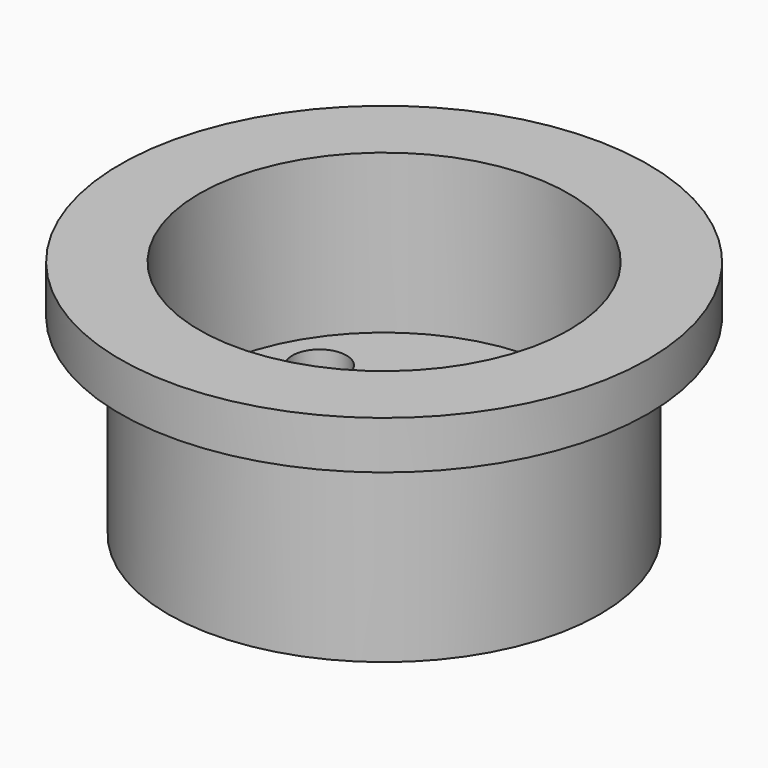
from build123d import *

# Parameters (mm, degrees)
F0_R           = 55
F0_R_2         = 3
F1_DEPTH       = 50
F2_R           = 38.5
F2_R_2         = 3
F3_DEPTH       = 33
F5_D           = 6.6
F5_CBORE_D     = 11.25
F5_CBORE_DEPTH = 6
F6_R           = 57.5
F6_R_2         = 45
F7_DEPTH       = 40


with BuildPart() as f1:
    # F0 (on Top) → F1 (new body)
    with BuildSketch(Plane.XY):
        Circle(F0_R)
        with BuildLine():
            ThreePointArc((28.0281341694, -14.45), (25.8045913047, -17.3477774789), (22.430057958, -15.95))
            Line((22.430057958, -15.95), (2.5980762114, -27.4))
            ThreePointArc((2.5980762114, -27.4), (2.8977774789, -28.1235428647), (3, -28.9))
            ThreePointArc((3, -28.9), (-0.7764571353, -31.7977774789), (-2.5980762114, -27.4))
            Line((-2.5980762114, -27.4), (-22.430057958, -15.95))
            ThreePointArc((-22.430057958, -15.95), (-27.6262103807, -15.95), (-25.0281341694, -11.45))
            Line((-25.0281341694, -11.45), (-25.0281341694, 11.45))
            ThreePointArc((-25.0281341694, 11.45), (-27.6262103807, 15.95), (-22.430057958, 15.95))
            Line((-22.430057958, 15.95), (-2.5980762114, 27.4))
            ThreePointArc((-2.5980762114, 27.4), (-0.7764571353, 31.7977774789), (3, 28.9))
            ThreePointArc((3, 28.9), (2.8977774789, 28.1235428647), (2.5980762114, 27.4))
            Line((2.5980762114, 27.4), (22.430057958, 15.95))
            ThreePointArc((22.430057958, 15.95), (25.8045913047, 17.3477774789), (28.0281341694, 14.45))
            ThreePointArc((28.0281341694, 14.45), (27.1494545129, 12.3286796564), (25.0281341694, 11.45))
            Line((25.0281341694, 11.45), (25.0281341694, -11.45))
            ThreePointArc((25.0281341694, -11.45), (27.1494545129, -12.3286796564), (28.0281341694, -14.45))
        make_face(mode=Mode.SUBTRACT)
        with BuildLine():
            Line((2.5980762114, -27.4), (22.430057958, -15.95))
            ThreePointArc((22.430057958, -15.95), (22.430057958, -12.95), (25.0281341694, -11.45))
            Line((25.0281341694, -11.45), (25.0281341694, 11.45))
            ThreePointArc((25.0281341694, 11.45), (22.430057958, 12.95), (22.430057958, 15.95))
            Line((22.430057958, 15.95), (2.5980762114, 27.4))
            ThreePointArc((2.5980762114, 27.4), (0, 25.9), (-2.5980762114, 27.4))
            Line((-2.5980762114, 27.4), (-22.430057958, 15.95))
            ThreePointArc((-22.430057958, 15.95), (-22.1303566905, 15.2264571353), (-22.0281341694, 14.45))
            ThreePointArc((-22.0281341694, 14.45), (-22.9068138258, 12.3286796564), (-25.0281341694, 11.45))
            Line((-25.0281341694, 11.45), (-25.0281341694, -11.45))
            ThreePointArc((-25.0281341694, -11.45), (-22.9068138258, -12.3286796564), (-22.0281341694, -14.45))
            ThreePointArc((-22.0281341694, -14.45), (-22.1303566905, -15.2264571353), (-22.430057958, -15.95))
            Line((-22.430057958, -15.95), (-2.5980762114, -27.4))
            ThreePointArc((-2.5980762114, -27.4), (0, -25.9), (2.5980762114, -27.4))
        make_face()
        Circle(F0_R_2, mode=Mode.SUBTRACT)
    extrude(amount=F1_DEPTH)

    # F2 (on face) → F3 (cut)
    with BuildSketch(Plane.XY.offset(50)):
        Circle(F2_R)
        with Locations((-25.0281341694, -14.45)):
            Circle(F2_R_2, mode=Mode.SUBTRACT)
        with Locations((0, -28.9)):
            Circle(F2_R_2, mode=Mode.SUBTRACT)
        with Locations((25.0281341694, -14.45)):
            Circle(F2_R_2, mode=Mode.SUBTRACT)
        with Locations((-25.0281341694, 14.45)):
            Circle(F2_R_2, mode=Mode.SUBTRACT)
        Circle(F2_R_2, mode=Mode.SUBTRACT)
        with Locations((25.0281341694, 14.45)):
            Circle(F2_R_2, mode=Mode.SUBTRACT)
        with Locations((0, 28.9)):
            Circle(F2_R_2, mode=Mode.SUBTRACT)
    extrude(amount=-F3_DEPTH, mode=Mode.SUBTRACT)

    # F5 (through all)
    with Locations(Plane.XY.offset(17)):
        with Locations((-25.0281341694, 14.45), (-25.0281341694, -14.45), (0, -28.9), (25.0281341694, -14.45), (25.0281341694, 14.45), (0, 28.9), (0, 0)):
            CounterBoreHole(F5_D / 2, F5_CBORE_D / 2, F5_CBORE_DEPTH)

    # F6 (on face) → F7 (cut)
    with BuildSketch(Plane(origin=(0, 0, 0), x_dir=(1, 0, 0), z_dir=(0, 0, -1))):
        Circle(F6_R)
        Circle(F6_R_2, mode=Mode.SUBTRACT)
    extrude(amount=-F7_DEPTH, mode=Mode.SUBTRACT)


solid = f1.part
